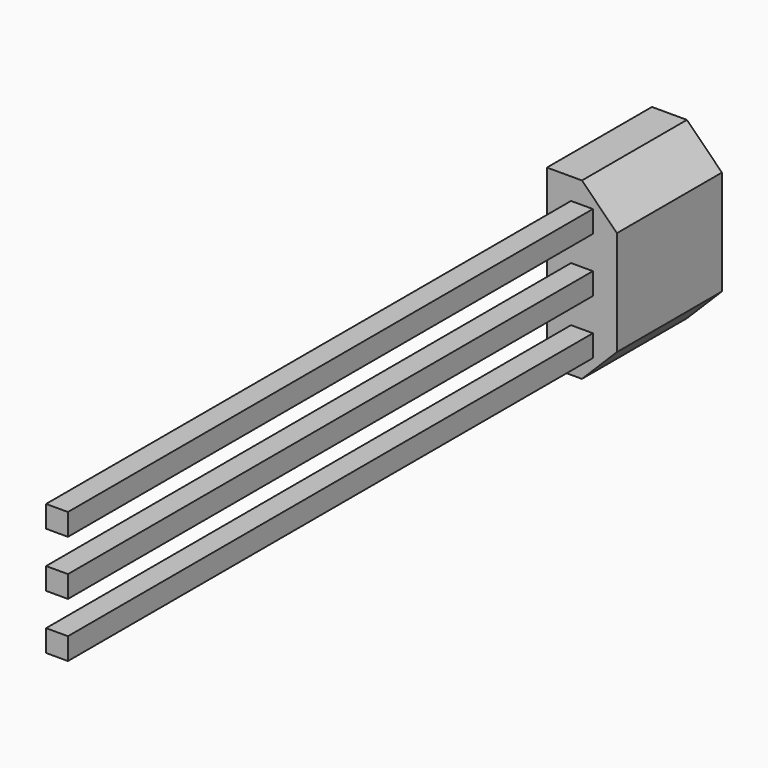
from build123d import *

# Parameters (mm, degrees)
F0_W     = 0.5
F0_H     = 0.5
F1_DEPTH = 3
F2_DEPTH = 18


with BuildPart() as f1:
    # F0 (on Front) → F1 (new body)
    with BuildSketch(Plane.XZ):
        Polygon((-0.8, 0), (0, 0), (0.8, 0.8), (0.8, 3.193335), (0, 3.993335), (-0.8, 3.993335), align=None)
        with Locations((0, 0.75)):
            Rectangle(F0_W, F0_H, mode=Mode.SUBTRACT)
        with Locations((0, 2)):
            Rectangle(F0_W, F0_H, mode=Mode.SUBTRACT)
        with Locations((0, 3.25)):
            Rectangle(F0_W, F0_H, mode=Mode.SUBTRACT)
    extrude(amount=F1_DEPTH)

    # F0 (on Front) → F2 (join)
    with BuildSketch(Plane.XZ):
        with Locations((0, 3.25)):
            Rectangle(F0_W, F0_H)
        with Locations((0, 2)):
            Rectangle(F0_W, F0_H)
        with Locations((0, 0.75)):
            Rectangle(F0_W, F0_H)
    extrude(amount=F2_DEPTH)


solid = f1.part
